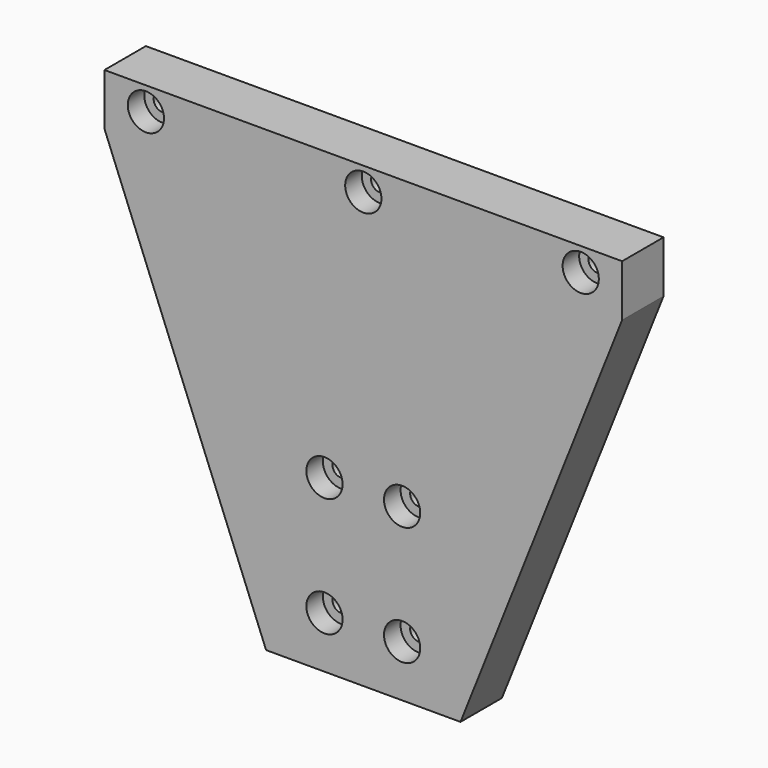
from build123d import *

# Parameters (mm, degrees)
F1_DEPTH        = 20.5
F2_W            = 200
F2_H            = 20
F3_DEPTH        = 20.5
F4_DEPTH        = 19
F5_DEPTH        = 25
F6_DEPTH        = 25
F9_D            = 6.6
F9_CBORE_D      = 14
F9_CBORE_DEPTH  = 8
F11_D           = 6.8
F11_CBORE_D     = 14
F11_CBORE_DEPTH = 8
F12_DEPTH       = 0.5


with BuildPart() as f1:
    # F0 (on Front) → F1 (new body)
    with BuildSketch(Plane.XZ):
        Polygon((42.4411185086, 149.9418458194), (-157.5588814914, 149.9418458194), (-87.5588814914, -26.0581541806), (-57.5588814914, -26.0581541806), (-27.5588814914, -26.0581541806), align=None)
    extrude(amount=F1_DEPTH)

    # F2 (on face) → F3 (join)
    with BuildSketch(Plane.XZ.offset(20.5)):
        with Locations((-57.5588814914, 159.9418458194)):
            Rectangle(F2_W, F2_H)
    extrude(amount=-F3_DEPTH)

    # F4 (cut): a face of the model
    f4_faces = [f1.faces().sort_by_distance(p)[0] for p in [
        (-57.5588814914, -10.25, -26.0581541806),
    ]]
    extrude(f4_faces, amount=-F4_DEPTH, mode=Mode.SUBTRACT)

    # F5 (cut): a face of the model
    f5_faces = [f1.faces().sort_by_distance(p)[0] for p in [
        (-87.5588814914, -10.25, -16.5581541806),
    ]]
    extrude(f5_faces, amount=-F5_DEPTH, mode=Mode.SUBTRACT)

    # F6 (cut): a face of the model
    f6_faces = [f1.faces().sort_by_distance(p)[0] for p in [
        (-27.5588814914, -10.25, -16.5581541806),
    ]]
    extrude(f6_faces, amount=-F6_DEPTH, mode=Mode.SUBTRACT)

    # F9 (through all)
    with Locations(Plane.XZ.offset(20.5)):
        with Locations((-72.5584090471, 58.9418458194), (-42.5584090471, 58.9418458194), (-42.5584090471, 12.9418458194), (-72.5584090471, 12.9418458194)):
            CounterBoreHole(F9_D / 2, F9_CBORE_D / 2, F9_CBORE_DEPTH)

    # F11 (through all)
    with Locations(Plane.XZ.offset(20.5)):
        with Locations((-141.5588814914, 160.9418458194), (26.4411185086, 160.9418458194), (-57.5588814914, 160.9418458194)):
            CounterBoreHole(F11_D / 2, F11_CBORE_D / 2, F11_CBORE_DEPTH)

    # F12 (cut): a face of the model
    f12_faces = [f1.faces().sort_by_distance(p)[0] for p in [
        (-57.5588840418, 0, 95.3321481764),
    ]]
    extrude(f12_faces, amount=-F12_DEPTH, mode=Mode.SUBTRACT)


solid = f1.part
